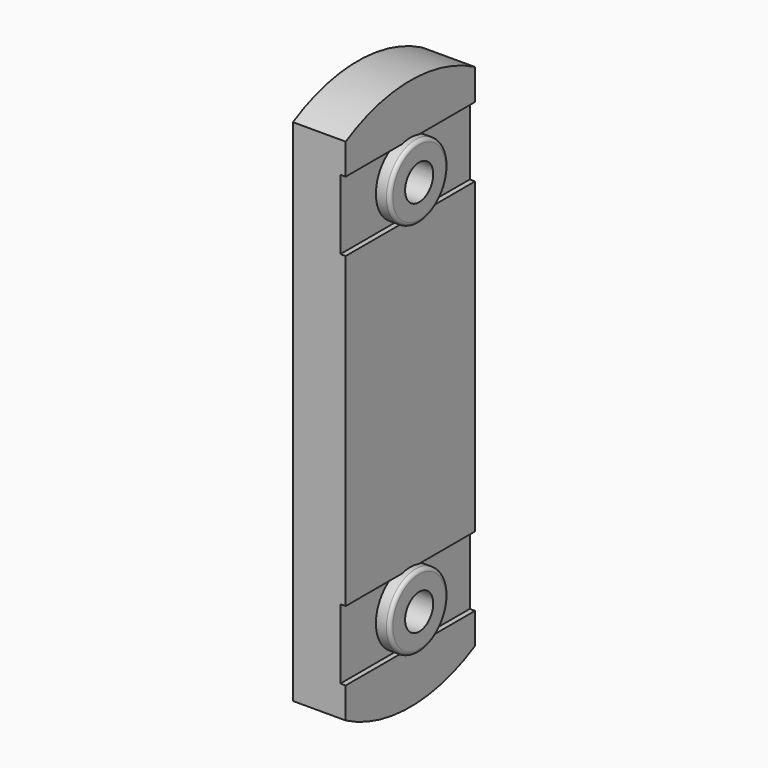
from build123d import *

# Parameters (mm, degrees)
F1_DEPTH = 3
F2_W     = 9.2
F2_H     = 3.976691
F3_DEPTH = 0.3
F4_R     = 2.07618
F5_DEPTH = 0.8
F6_R     = 0.2
F7_R     = 1
F8_DEPTH = 25


with BuildPart() as f1:
    # F0 (on Right) → F1 (new body)
    with BuildSketch(Plane.YZ):
        with BuildLine():
            Line((4.6, -14.5), (4.6, 14.5))
            ThreePointArc((4.6, 14.5), (0, 15.694247), (-4.6, 14.5))
            Line((-4.6, 14.5), (-4.6, -14.5))
            ThreePointArc((-4.6, -14.5), (0, -15.694247), (4.6, -14.5))
        make_face()
    extrude(amount=F1_DEPTH)

    # F2 (on face) → F3 (cut)
    with BuildSketch(Plane.YZ.offset(3)):
        with Locations((0, 10.756953)):
            Rectangle(F2_W, F2_H)
        with Locations((0, -10.756953)):
            Rectangle(F2_W, F2_H)
    extrude(amount=-F3_DEPTH, mode=Mode.SUBTRACT)

    # F4 (on face) → F5 (join)
    with BuildSketch(Plane.YZ.offset(2.7)):
        with Locations((0, 10.756953)):
            Circle(F4_R)
        with Locations((0, -10.756953)):
            Circle(F4_R)
    extrude(amount=F5_DEPTH)

    # F6
    f6_edges = [f1.edges().sort_by_distance(p)[0] for p in [
        (3.5, -2.07618, 10.756953),
        (3.5, -2.07618, -10.756953),
    ]]
    fillet(f6_edges, radius=F6_R)

    # F7 (on face) → F8 (cut)
    with BuildSketch(Plane.YZ.offset(3.5)):
        with Locations((0, 10.756953)):
            Circle(F7_R)
        with Locations((0, -10.756953)):
            Circle(F7_R)
    extrude(amount=-F8_DEPTH, mode=Mode.SUBTRACT)


solid = f1.part
